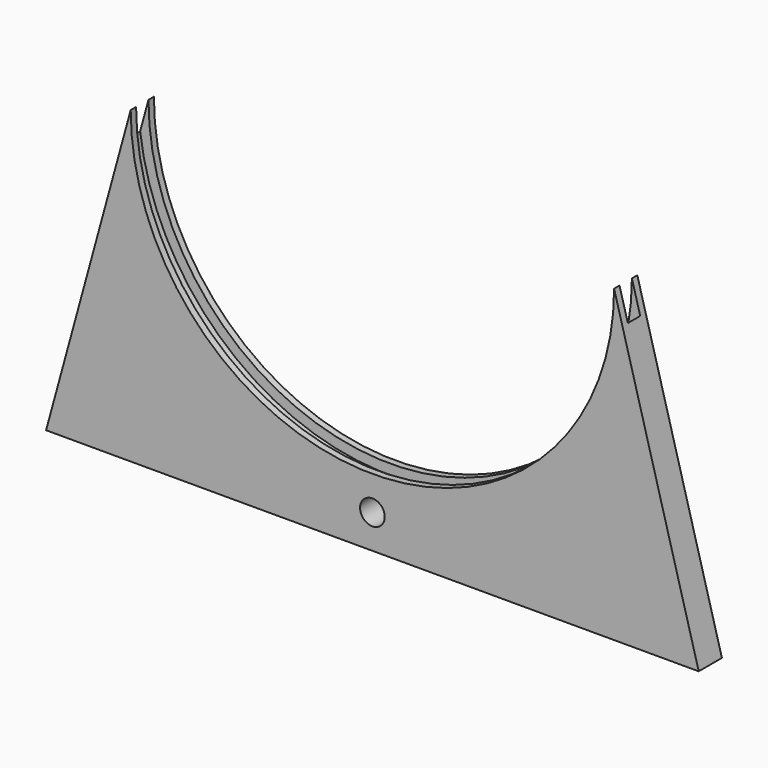
from build123d import *

# Parameters (mm, degrees)
SKETCH005_R     = 2.55
PAD003_DEPTH    = 3
SKETCH006_R     = 52.1
POCKET_DEPTH    = 1.6
SKETCH011_W     = 8.2
SKETCH011_H     = 9
POCKET003_DEPTH = 1.55


with BuildPart() as part:
    # Sketch005 → Pad003 (new body, symmetric)
    with BuildSketch(Plane.XZ):
        with BuildLine():
            Line((-67.5, -64), (-50, 0))
            ThreePointArc((-50, 0), (0, -50), (50, 0))
            Line((67.5, -64), (50, 0))
            Line((-67.5, -64), (67.5, -64))
        make_face()
        with Locations((0, -57)):
            Circle(SKETCH005_R, mode=Mode.SUBTRACT)
    extrude(amount=PAD003_DEPTH, both=True)

    # Sketch006 → Pocket (cut, symmetric)
    with BuildSketch(Plane.XZ):
        Circle(SKETCH006_R)
    extrude(amount=POCKET_DEPTH, both=True, mode=Mode.SUBTRACT)

    # Sketch011 → Pocket003 (cut, symmetric)
    with BuildSketch(Plane.XZ):
        with Locations((0, -49.1)):
            Rectangle(SKETCH011_W, SKETCH011_H)
    extrude(amount=POCKET003_DEPTH, both=True, mode=Mode.SUBTRACT)


solid = part.part
